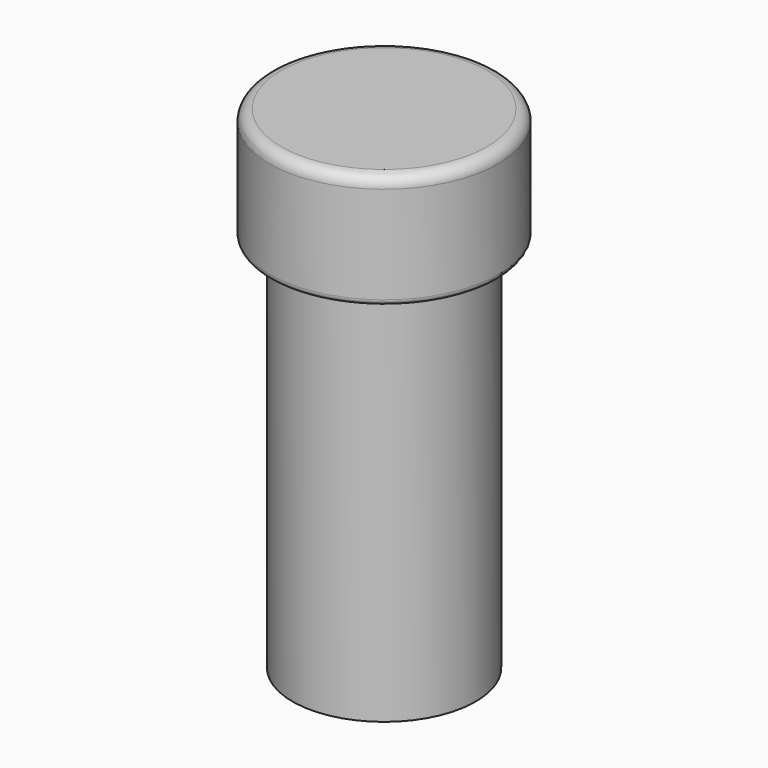
from build123d import *

# Parameters (mm, degrees)
SKETCH019_R  = 4
PAD008_DEPTH = 16.5
SKETCH020_R  = 5
PAD009_DEPTH = 5
FILLET001_R  = 0.25
FILLET002_R  = 0.5


with BuildPart() as part:
    # Sketch019 → Pad008 (new body)
    with BuildSketch(Plane(origin=(0, 0, 16.7), x_dir=(0, 1, 0), z_dir=(0, 0, 1))):
        Circle(SKETCH019_R)
    extrude(amount=PAD008_DEPTH)

    # Sketch020 (on Face3 of Pad008) → Pad009 (join)
    with BuildSketch(Plane(origin=(0, 0, 33.2), x_dir=(0, 1, 0), z_dir=(0, 0, 1))):
        Circle(SKETCH020_R)
    extrude(amount=PAD009_DEPTH)

    # Fillet001
    fillet001_edges = [part.edges().sort_by_distance(p)[0] for p in [
        (0, -5, 33.2),
    ]]
    fillet(fillet001_edges, radius=FILLET001_R)

    # Fillet002
    fillet002_edges = [part.edges().sort_by_distance(p)[0] for p in [
        (0, -5, 38.2),
    ]]
    fillet(fillet002_edges, radius=FILLET002_R)


solid = part.part
